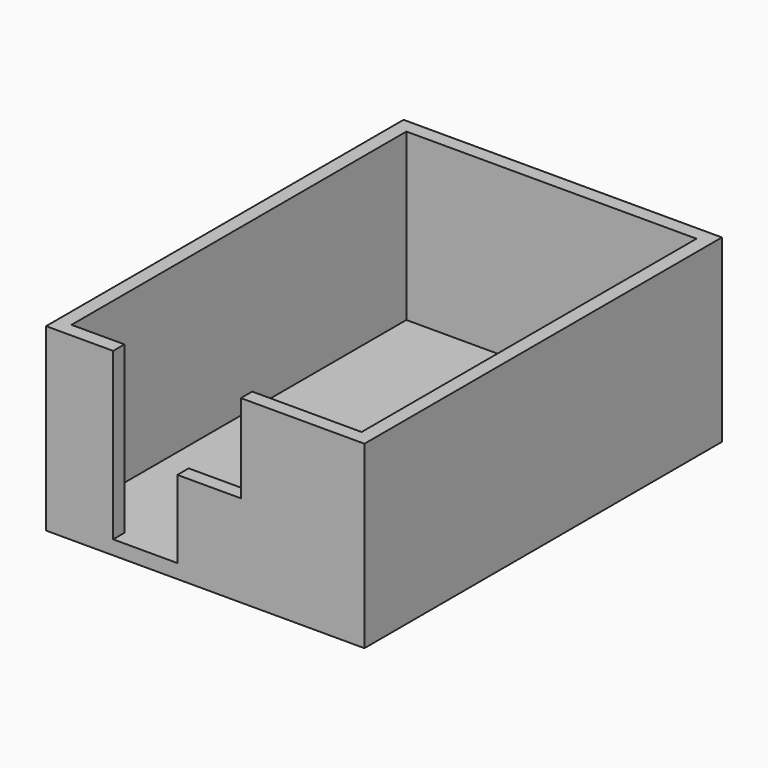
from build123d import *

# Parameters (mm, degrees)
F0_W     = 4510
F0_H     = 6330
F1_DEPTH = 200
F2_W     = 4510
F2_H     = 6330
F2_W_2   = 4110
F2_H_2   = 5930
F3_DEPTH = 2350
F5_DEPTH = 200


with BuildPart() as f1:
    # F0 (on Top) → F1 (new body)
    with BuildSketch(Plane.XY):
        with Locations((-10.15817, 620.80199)):
            Rectangle(F0_W, F0_H)
    extrude(amount=F1_DEPTH)

    # F2 (on face) → F3 (join)
    with BuildSketch(Plane.XY.offset(200)):
        with Locations((-10.15817, 620.80199)):
            Rectangle(F2_W, F2_H)
        with Locations((-10.15817, 620.80199)):
            Rectangle(F2_W_2, F2_H_2, mode=Mode.SUBTRACT)
    extrude(amount=F3_DEPTH)

    # F4 (on face) → F5 (cut, through all)
    with BuildSketch(Plane(origin=(0, -2344.19801, 0), x_dir=(-1, 0, 0), z_dir=(0, 1, 0))):
        Polygon((405.15817, 2550), (-494.84183, 2550), (-494.84183, 1300), (405.15817, 1300), (405.15817, 200), (1315.15817, 200), (1315.15817, 2550), align=None)
    extrude(amount=-F5_DEPTH, mode=Mode.SUBTRACT)


solid = f1.part
